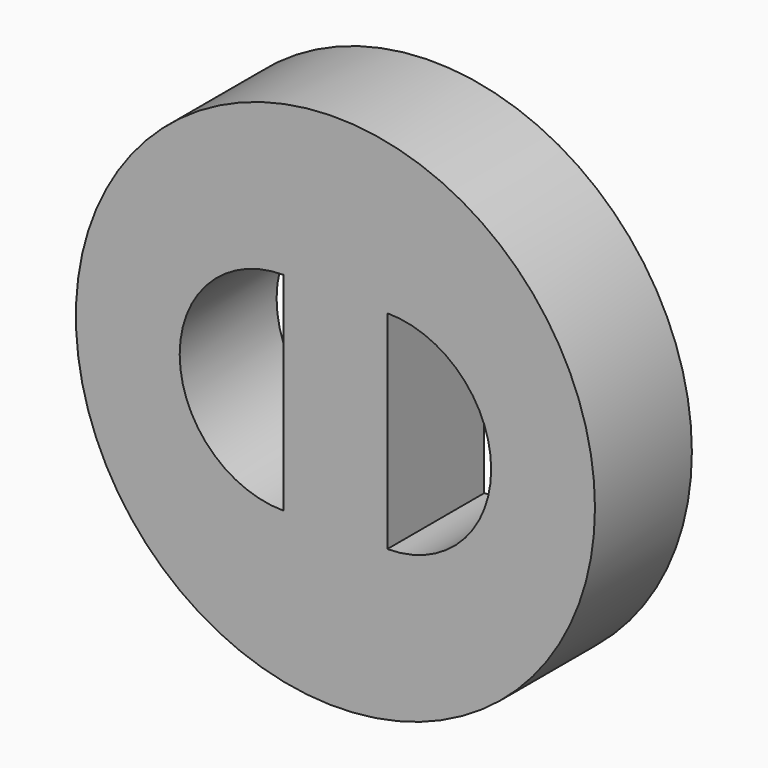
from build123d import *

# Parameters (mm, degrees)
F0_R     = 7.5
F1_DEPTH = 3.5
F3_DEPTH = 25


with BuildPart() as f1:
    # F0 (on Front) → F1 (new body)
    with BuildSketch(Plane.XZ):
        Circle(F0_R)
    extrude(amount=F1_DEPTH)

    # F2 (on face) → F3 (cut)
    with BuildSketch(Plane.XZ.offset(3.5)):
        with BuildLine():
            ThreePointArc((1.5, -3), (4.5, 0), (1.5, 3))
            Line((1.5, 3), (1.5, -3))
        make_face()
        with BuildLine():
            Line((-1.5, -3), (-1.5, 3))
            ThreePointArc((-1.5, 3), (-4.5, 0), (-1.5, -3))
        make_face()
    extrude(amount=-F3_DEPTH, mode=Mode.SUBTRACT)


solid = f1.part
